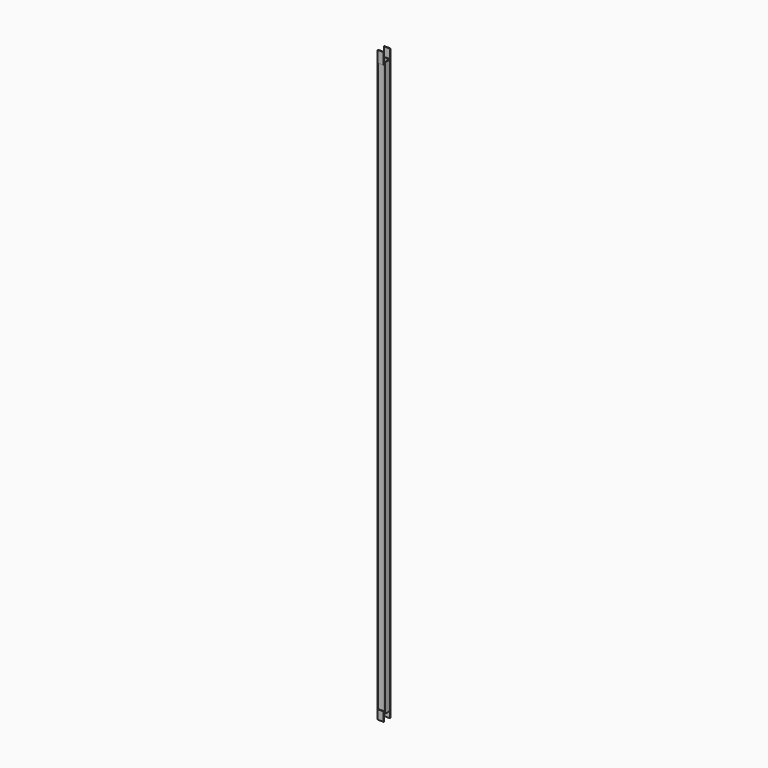
from build123d import *

# Parameters (mm, degrees)
F0_W     = 26.75
F0_H     = 26.75
F1_DEPTH = 2500
F2_W     = 26.75
F2_H     = 50
F2_H_2   = 40
F3_DEPTH = 2.5


with BuildPart() as f1:
    # F0 (on Top) → F1 (new body)
    with BuildSketch(Plane.XY):
        with BuildLine():
            ThreePointArc((15.875, 13.375), (15.142766953, 15.142766953), (13.375, 15.875))
            Line((13.375, 15.875), (-13.375, 15.875))
            ThreePointArc((-13.375, 15.875), (-15.142766953, 15.142766953), (-15.875, 13.375))
            Line((-15.875, 13.375), (-15.875, -13.375))
            ThreePointArc((-15.875, -13.375), (-15.142766953, -15.142766953), (-13.375, -15.875))
            Line((-13.375, -15.875), (13.375, -15.875))
            ThreePointArc((13.375, -15.875), (15.142766953, -15.142766953), (15.875, -13.375))
            Line((15.875, -13.375), (15.875, 13.375))
        make_face()
        Rectangle(F0_W, F0_H, mode=Mode.SUBTRACT)
    extrude(amount=F1_DEPTH)

    # F2 (on face) → F3 (join)
    with BuildSketch(Plane.XZ.offset(15.875)):
        with Locations((0, 2515)):
            Rectangle(F2_W, F2_H)
        with Locations((0, -10)):
            Rectangle(F2_W, F2_H_2)
    extrude(amount=F3_DEPTH)

    # F4: F1 across plane


with BuildPart() as f1_1:
    add(f1.part)
    add(f1.part.mirror(Plane.XZ))


solid = f1_1.part
